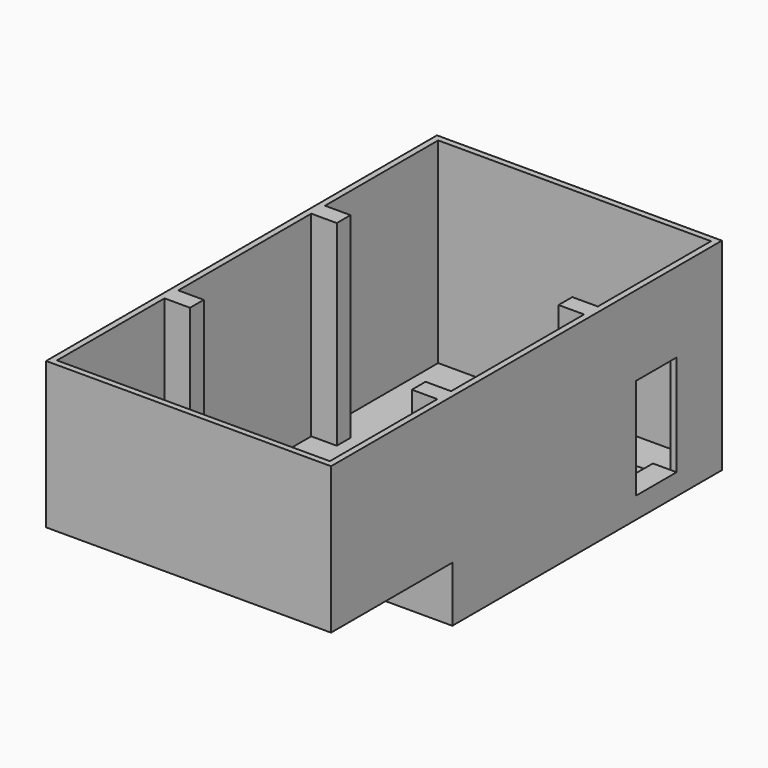
from build123d import *

# Parameters (mm, degrees)
F0_W      = 5640
F0_H      = 6670
F1_DEPTH  = 4000
F2_W      = 5640
F2_H      = 2900
F3_DEPTH  = 3000
F4_T      = -120
F5_W      = 505
F5_H      = 340
F6_DEPTH  = 3880
F7_R      = 60
F8_DEPTH  = 3850
F9_W      = 350
F9_H      = 1000
F10_DEPTH = 300
F11_DEPTH = 150
F12_W     = 1000
F12_H     = 2000
F13_DEPTH = 120
F14_W     = 505
F14_H     = 340
F15_DEPTH = 2780


with BuildPart() as f1:
    # F0 (on Top) → F1 (new body)
    with BuildSketch(Plane.XY):
        with Locations((-4455.7737725742, 3335)):
            Rectangle(F0_W, F0_H)
    extrude(amount=F1_DEPTH)

    # F2 (on face) → F3 (join)
    with BuildSketch(Plane.XZ):
        with Locations((-4455.7737725742, 2550)):
            Rectangle(F2_W, F2_H)
    extrude(amount=F3_DEPTH)

    # F4
    f4_openings = [f1.faces().sort_by_distance(p)[0] for p in [
        (-4455.773773, 1835, 4000),
    ]]
    offset(amount=F4_T, openings=f4_openings, kind=Kind.INTERSECTION)

    # F5 (on face) → F6 (join)
    with BuildSketch(Plane.XY.offset(120)):
        with Locations((-6903.2737725742, 3580)):
            Rectangle(F5_W, F5_H)
        with Locations((-2008.2737725742, 3580)):
            Rectangle(F5_W, F5_H)
    extrude(amount=F6_DEPTH)

    # F7 (on face) → F8 (join)
    with BuildSketch(Plane(origin=(0, 120, 0), x_dir=(-1, 0, 0), z_dir=(0, 1, 0))):
        with Locations((1935.7737725742, 1000)):
            Circle(F7_R)
    extrude(amount=F8_DEPTH)

    # F9 (on face) → F10 (join)
    with BuildSketch(Plane.XY.offset(120)):
        with Locations((-1930.7737725742, 5050)):
            Rectangle(F9_W, F9_H)
    extrude(amount=F10_DEPTH)

    # F9 (on face) → F11 (join)
    with BuildSketch(Plane.XY.offset(120)):
        with Locations((-2280.7737725742, 5050)):
            Rectangle(F9_W, F9_H)
    extrude(amount=F11_DEPTH)

    # F12 (on face) → F13 (cut)
    with BuildSketch(Plane.YZ.offset(-1635.7737725742)):
        with Locations((5050, 1420)):
            Rectangle(F12_W, F12_H)
    extrude(amount=-F13_DEPTH, mode=Mode.SUBTRACT)

    # F14 (on face) → F15 (join)
    with BuildSketch(Plane.XY.offset(1220)):
        with Locations((-2008.2737725742, -50)):
            Rectangle(F14_W, F14_H)
        with Locations((-6903.2737725742, -50)):
            Rectangle(F14_W, F14_H)
    extrude(amount=F15_DEPTH)


solid = f1.part
